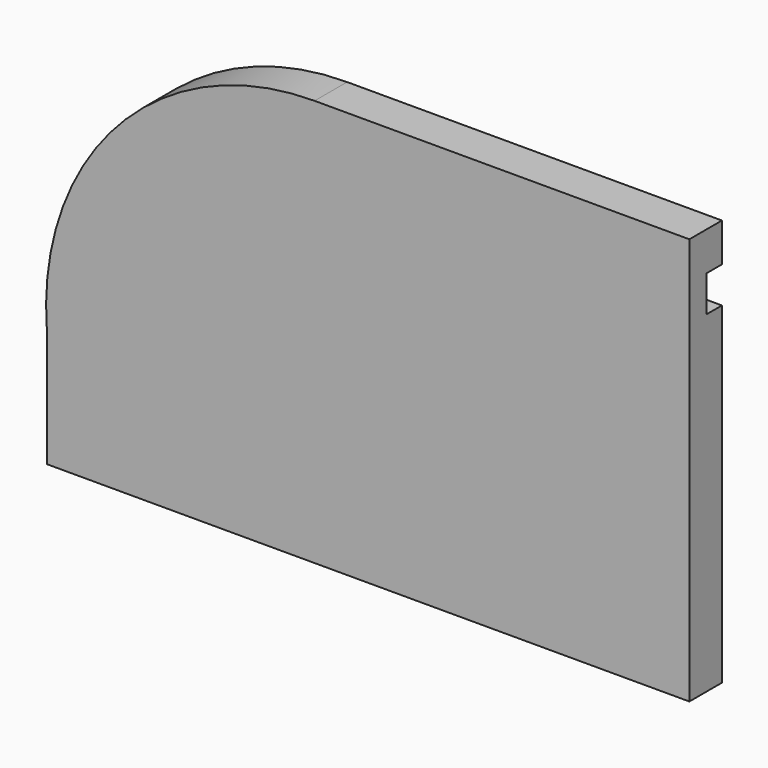
from build123d import *

# Parameters (mm, degrees)
F1_DEPTH = 19
F3_DEPTH = 9


with BuildPart() as f1:
    # F0 (on Front) → F1 (new body)
    with BuildSketch(Plane.XZ):
        with BuildLine():
            Line((0, -155.089807), (300, -155.089807))
            Line((300, -155.089807), (300, 34.910193))
            Line((300, 34.910193), (125, 34.910193))
            ThreePointArc((125, 34.910193), (33.008153, -5.282541), (0, -100.089807))
            Line((0, -100.089807), (0, -155.089807))
        make_face()
    extrude(amount=F1_DEPTH)

    # F2 (on face) → F3 (cut)
    with BuildSketch(Plane(origin=(0, 0, 0), x_dir=(-1, 0, 0), z_dir=(0, 1, 0))):
        with BuildLine():
            Line((-300, 16.865781), (-300, 0))
            Line((-300, 0), (-125, 0))
            ThreePointArc((-125, 0), (-64.005279, -34.379027), (-39.831597, -100.089807))
            Line((-39.831597, -100.089807), (-39.831597, -155.089807))
            Line((-39.831597, -155.089807), (-18.048858, -155.089807))
            Line((-18.048858, -155.089807), (-18.048858, -100.089807))
            ThreePointArc((-18.048858, -100.089807), (-48.817931, -20.847842), (-125, 16.865781))
            Line((-125, 16.865781), (-300, 16.865781))
        make_face()
    extrude(amount=-F3_DEPTH, mode=Mode.SUBTRACT)


solid = f1.part
